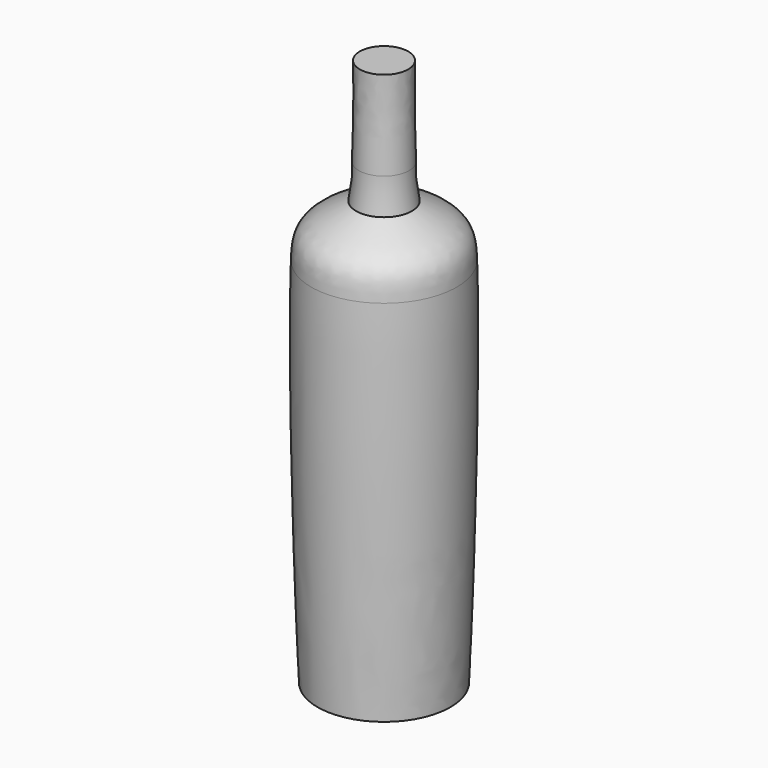
from build123d import *


with BuildPart() as f1:
    # F0 (on Right) → F1 (revolve)
    with BuildSketch(Plane.YZ):
        with BuildLine():
            Line((13.5, 151.6107855353), (0, 151.6107855353))
            Line((0, 151.6107855353), (0, 102.1107855353))
            Line((0, 102.1107855353), (13.95, 102.1107855353))
            add(Edge.make_bspline(
                [(13.5, 151.6107855353), (13.1224878132, 124.5037317276), (13.9465620024, 111.2314334095), (13.95, 102.1107855353)],
                knots=[0, 0, 0, 0, 0.6152043696, 0.6152043696, 0.6152043696, 0.6152043696], degree=3))
        make_face()
        with BuildLine():
            Line((13.95, 102.1107855353), (0, 102.1107855353))
            Line((0, 102.1107855353), (0, 82.8107855353))
            Line((0, 82.8107855353), (15.55, 82.8107855353))
            add(Edge.make_bspline(
                [(13.95, 102.1107855353), (13.9521503854, 96.4060382634), (13.6332511902, 92.3255011439), (15.55, 82.8107855353)],
                knots=[0.6152043696, 0.6152043696, 0.6152043696, 0.6152043696, 1, 1, 1, 1], degree=3))
        make_face()
        with BuildLine():
            Line((15.55, 82.8107855353), (0, 82.8107855353))
            Line((0, 82.8107855353), (0, 53.6107855353))
            Line((0, 53.6107855353), (40.5, 53.6107855353))
            add(Edge.make_bspline(
                [(15.55, 82.8107855353), (39.1715317965, 71.3841170073), (40.0225187288, 67.6108114576), (40.5, 53.6107855353)],
                knots=[0, 0, 0, 0, 0.3010498854, 0.3010498854, 0.3010498854, 0.3010498854], degree=3))
        make_face()
        with BuildLine():
            Line((40.5, 53.6107855353), (0, 53.6107855353))
            Line((0, 53.6107855353), (0, -153.3892144647))
            Line((0, -153.3892144647), (37, -153.3892144647))
            add(Edge.make_bspline(
                [(40.5, 53.6107855353), (41.6085723844, 21.1068046384), (40.7038256526, -66.5225833654), (37, -153.3892144647)],
                knots=[0.3010498854, 0.3010498854, 0.3010498854, 0.3010498854, 1, 1, 1, 1], degree=3))
        make_face()
    revolve(axis=Axis((0, 0, -0.8892144647), (0, 0, -1)))


solid = f1.part
